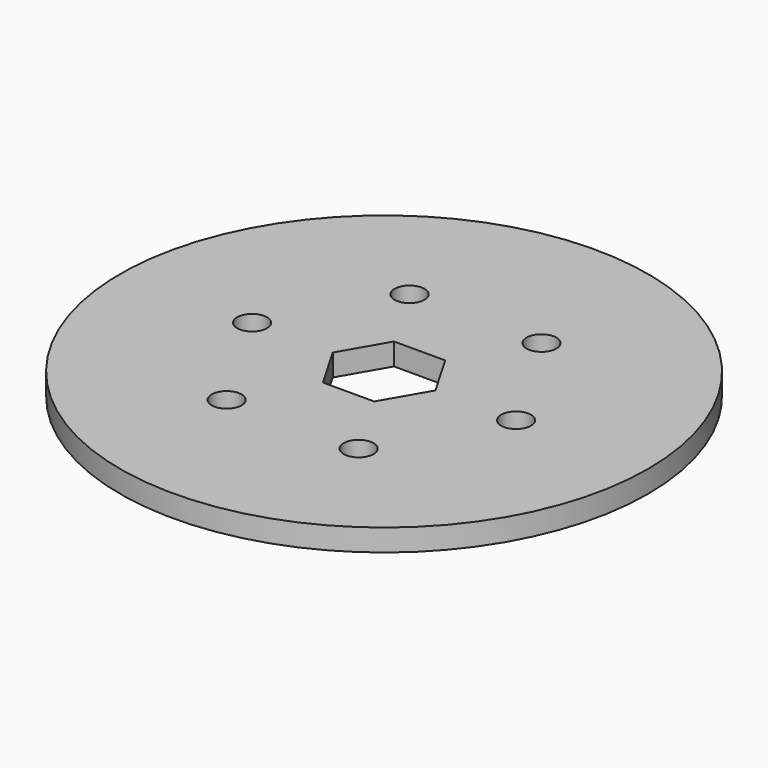
from build123d import *

# Parameters (mm, degrees)
F0_R     = 38.1
F0_R_2   = 2.15265
F1_DEPTH = 3.175


with BuildPart() as f1:
    # F0 (on Top) → F1 (new body)
    with BuildSketch(Plane.XY):
        Circle(F0_R)
        with Locations((-9.525, -16.497784)):
            Circle(F0_R_2, mode=Mode.SUBTRACT)
        with Locations((9.525, -16.497784)):
            Circle(F0_R_2, mode=Mode.SUBTRACT)
        with Locations((-19.05, 0)):
            Circle(F0_R_2, mode=Mode.SUBTRACT)
        with Locations((-9.525, 16.497784)):
            Circle(F0_R_2, mode=Mode.SUBTRACT)
        Polygon((7.405672, 0), (3.702836, -6.4135), (-3.702836, -6.4135), (-7.405672, 0), (-3.702836, 6.4135), (3.702836, 6.4135), align=None, mode=Mode.SUBTRACT)
        with Locations((9.525, 16.497784)):
            Circle(F0_R_2, mode=Mode.SUBTRACT)
        with Locations((19.05, 0)):
            Circle(F0_R_2, mode=Mode.SUBTRACT)
    extrude(amount=F1_DEPTH)


solid = f1.part
